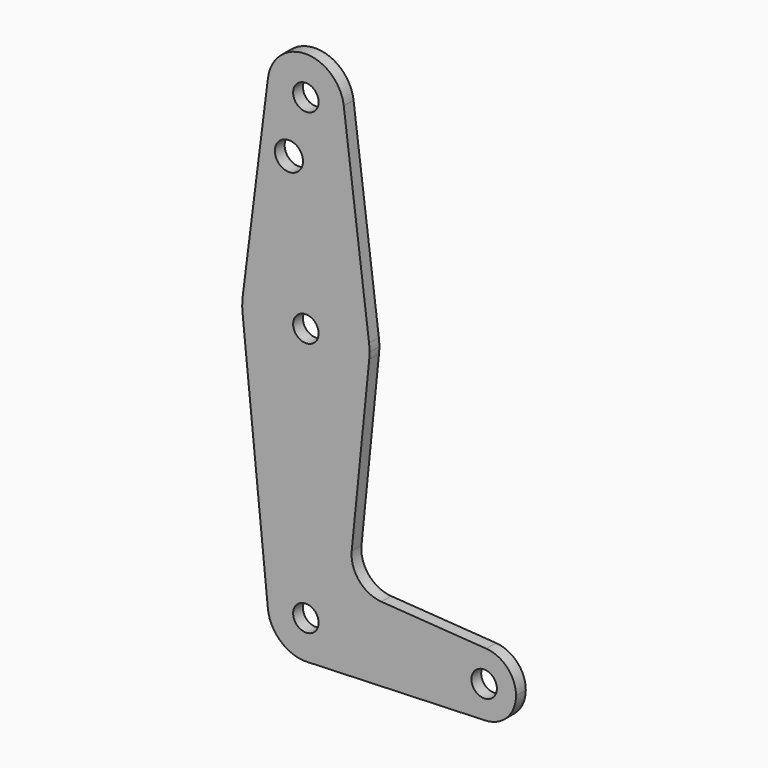
from build123d import *

# Parameters (mm, degrees)
F0_R     = 3.175
F0_R_2   = 3.504062
F1_DEPTH = 3.048


with BuildPart() as f1:
    # F0 (on Front) → F1 (new body)
    with BuildSketch(Plane.XZ):
        with BuildLine():
            ThreePointArc((-9.450293, 115.490625), (-0.596483, 104.793695), (9.525, 114.3))
            ThreePointArc((9.525, 114.3), (9.506305, 114.896483), (9.450293, 115.490625))
            ThreePointArc((9.450293, 115.490625), (0, 123.825), (-9.450293, 115.490625))
        make_face()
        with Locations((0, 114.3)):
            Circle(F0_R, mode=Mode.SUBTRACT)
        with BuildLine():
            ThreePointArc((9.450293, 115.490625), (9.506305, 114.896483), (9.525, 114.3))
            ThreePointArc((9.525, 114.3), (-0.596483, 104.793695), (-9.450293, 115.490625))
            Line((-9.450293, 115.490625), (-15.750488, 65.484375))
            ThreePointArc((-15.750488, 65.484375), (0, 79.375), (15.750488, 65.484375))
            Line((15.750488, 65.484375), (9.450293, 115.490625))
        make_face()
        with Locations((-4.227645, 100.0252)):
            Circle(F0_R_2, mode=Mode.SUBTRACT)
        with BuildLine():
            ThreePointArc((15.875, 63.5), (15.843841, 64.494139), (15.750488, 65.484375))
            ThreePointArc((15.750488, 65.484375), (0, 79.375), (-15.750488, 65.484375))
            ThreePointArc((-15.750488, 65.484375), (-15.873744, 63.699705), (-15.795426, 61.9125))
            ThreePointArc((-15.795426, 61.9125), (0, 47.625), (15.795426, 61.9125))
            ThreePointArc((15.795426, 61.9125), (15.855094, 62.705253), (15.875, 63.5))
        make_face()
        with Locations((0, 63.5)):
            Circle(F0_R, mode=Mode.SUBTRACT)
        with BuildLine():
            ThreePointArc((15.795426, 61.9125), (0, 47.625), (-15.795426, 61.9125))
            Line((-15.795426, 61.9125), (-9.477255, -0.9525))
            ThreePointArc((-9.477255, -0.9525), (-0.476848, 9.513056), (9.525, 0))
            ThreePointArc((9.525, 0), (6.854408, -6.613827), (0.340179, -9.518923))
            Line((0.340179, -9.518923), (44.733482, -7.932436))
            ThreePointArc((44.733482, -7.932436), (36.513564, 0.129936), (44.993001, 7.918905))
            Line((44.993001, 7.918905), (18.79296, 9.715447))
            ThreePointArc((18.79296, 9.715447), (13.261731, 12.518781), (11.42648, 18.442043))
            Line((11.42648, 18.442043), (15.795426, 61.9125))
        make_face()
        with BuildLine():
            ThreePointArc((9.525, 0), (-0.476848, 9.513056), (-9.477255, -0.9525))
            ThreePointArc((-9.477255, -0.9525), (-6.262383, -7.17692), (0.340179, -9.518923))
            ThreePointArc((0.340179, -9.518923), (6.854408, -6.613827), (9.525, 0))
        make_face()
        Circle(F0_R, mode=Mode.SUBTRACT)
        with BuildLine():
            ThreePointArc((44.993001, 7.918905), (36.513564, 0.129936), (44.733482, -7.932436))
            ThreePointArc((44.733482, -7.932436), (50.162007, -5.511523), (52.3875, 0))
            ThreePointArc((52.3875, 0), (50.251464, 5.41728), (44.993001, 7.918905))
        make_face()
        with Locations((44.45, 0)):
            Circle(F0_R, mode=Mode.SUBTRACT)
    extrude(amount=F1_DEPTH)


solid = f1.part
